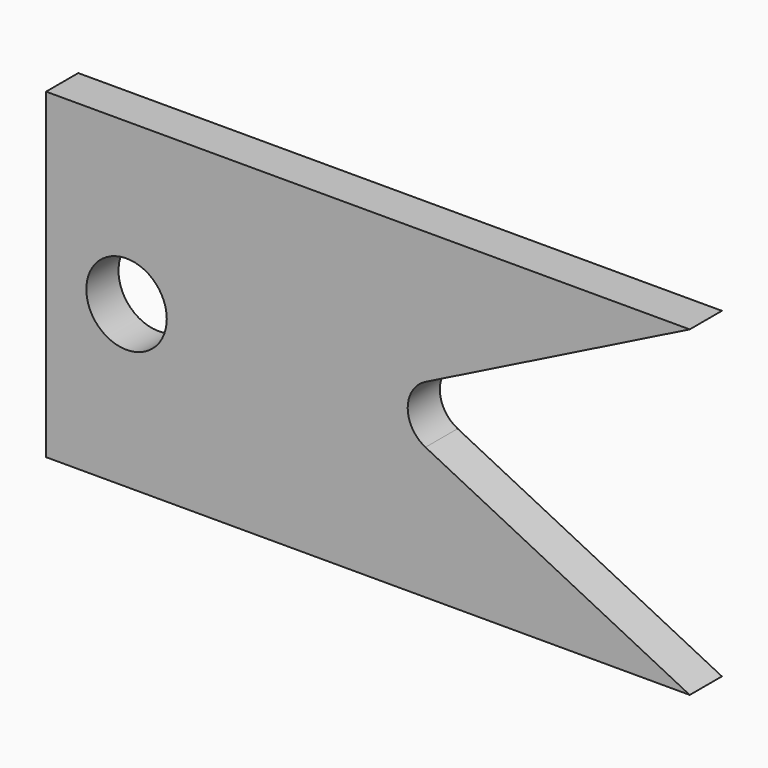
from build123d import *

# Parameters (mm, degrees)
F0_R     = 6.35
F1_DEPTH = 6.35
F2_R     = 5.08


with BuildPart() as f1:
    # F0 (on Front) → F1 (new body)
    with BuildSketch(Plane.XZ):
        Polygon((54.91828, 28.415628), (-46.68172, 28.415628), (-46.68172, -22.384372), (54.91828, -22.384372), (4.11828, 3.015628), align=None)
        with Locations((-33.98172, 3.015628)):
            Circle(F0_R, mode=Mode.SUBTRACT)
    extrude(amount=F1_DEPTH)

    # F2
    f2_edges = [f1.edges().sort_by_distance(p)[0] for p in [
        (4.11828, -3.175, 3.015628),
    ]]
    fillet(f2_edges, radius=F2_R)


solid = f1.part
